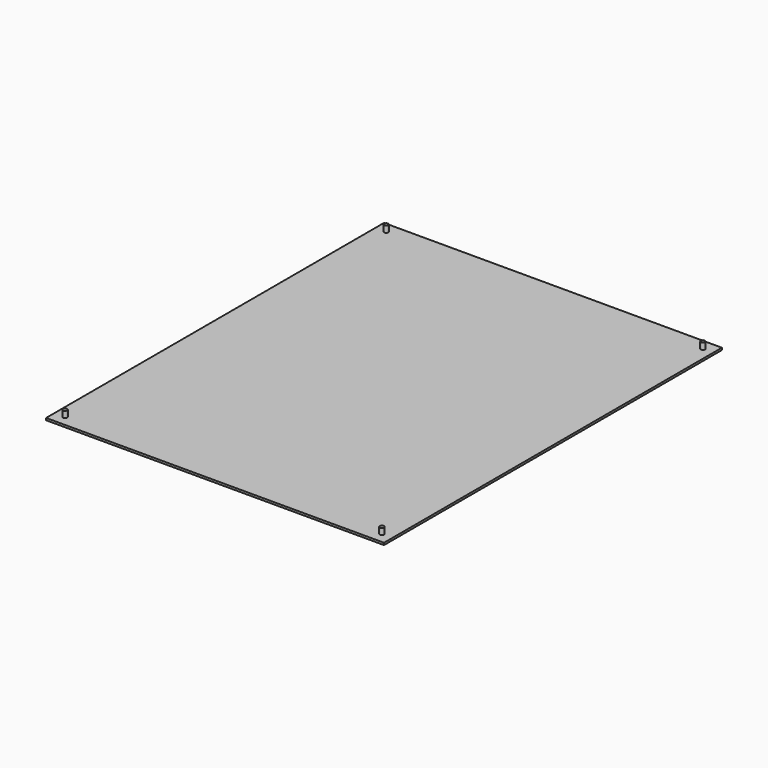
from build123d import *

# Parameters (mm, degrees)
F0_W     = 203.2
F0_H     = 254
F1_DEPTH = 1.27
F2_R     = 1.27
F3_DEPTH = 3.81
F4_R     = 25.4
F4_W     = 12.7
F4_H     = 38.1
F5_DEPTH = 2.54


with BuildPart() as f1:
    # F0 (on Top) → F1 (new body)
    with BuildSketch(Plane.XY):
        Rectangle(F0_W, F0_H)
    extrude(amount=F1_DEPTH)

    # F2 (on face) → F3 (join)
    with BuildSketch(Plane.XY.offset(1.27)):
        with Locations((-95.25, 120.65)):
            Circle(F2_R)
        with Locations((95.25, 120.65)):
            Circle(F2_R)
        with Locations((95.25, -120.65)):
            Circle(F2_R)
        with Locations((-95.25, -120.65)):
            Circle(F2_R)
    extrude(amount=F3_DEPTH)

    # F4 (on face) → F5 (join)
    with BuildSketch(Plane(origin=(0, 0, 0), x_dir=(1, 0, 0), z_dir=(0, 0, -1))):
        Polygon((-56.228016, 40.367917), (-28.573968, 14.159834), (-19.83794, 23.377851), (-47.491989, 49.585933), align=None)
        Circle(F4_R)
        Polygon((56.228016, 40.367917), (47.491989, 49.585933), (19.83794, 23.377851), (28.573968, 14.159834), align=None)
        with Locations((0.303105, -49.53)):
            Rectangle(F4_W, F4_H)
    extrude(amount=F5_DEPTH)


solid = f1.part
